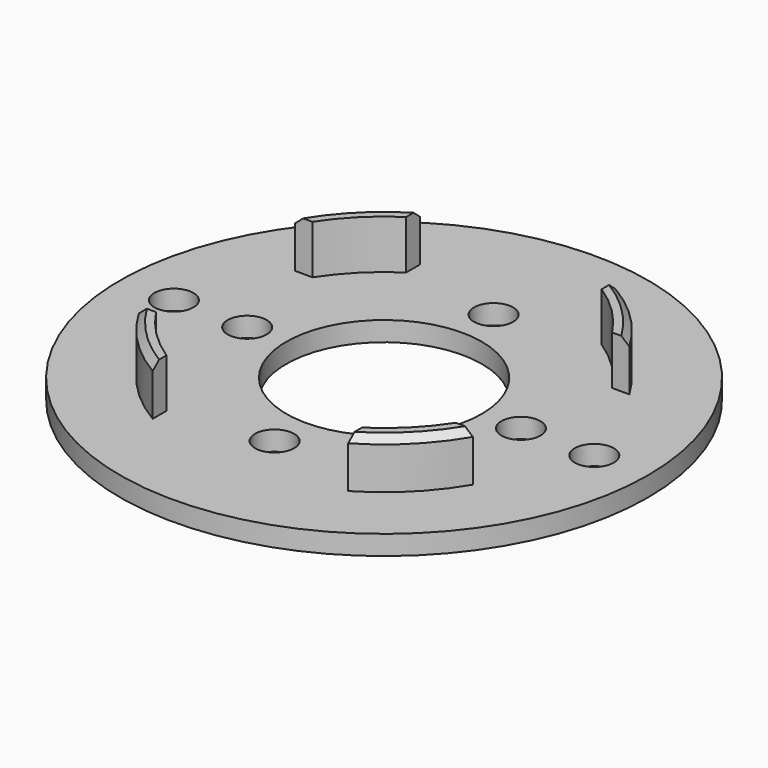
from build123d import *

# Parameters (mm, degrees)
SKETCH_R        = 27
SKETCH_R_2      = 10
PAD_DEPTH       = 2
SKETCH001_R     = 2
POCKET_DEPTH    = 2.001
SKETCH002_R     = 19.8
SKETCH002_R_2   = 18.3
PAD001_DEPTH    = 5
POCKET001_DEPTH = 5
SKETCH004_R     = 2
POCKET002_DEPTH = 2.001
CHAMFER_SIZE    = 0.7


with BuildPart() as part:
    # Sketch → Pad (new body)
    with BuildSketch(Plane.XY):
        Circle(SKETCH_R)
        Circle(SKETCH_R_2, mode=Mode.SUBTRACT)
    extrude(amount=PAD_DEPTH)

    # Sketch001 (on Face4 of Pad) → Pocket (cut, through all)
    with BuildSketch(Plane.XY.offset(2)):
        with Locations((0, 14)):
            Circle(SKETCH001_R)
        with Locations((14, 0)):
            Circle(SKETCH001_R)
        with Locations((0, -14)):
            Circle(SKETCH001_R)
        with Locations((-14, 0)):
            Circle(SKETCH001_R)
    extrude(amount=-POCKET_DEPTH, mode=Mode.SUBTRACT)

    # Sketch002 (on Face3 of Pocket) → Pad001 (join)
    with BuildSketch(Plane.XY.offset(2)):
        Circle(SKETCH002_R)
        Circle(SKETCH002_R_2, mode=Mode.SUBTRACT)
    extrude(amount=PAD001_DEPTH)

    # Sketch003 (on Face3 of Pad001) → Pocket001 (cut)
    with BuildSketch(Plane.XY.offset(2)):
        Polygon((-49.376067, 10), (-10, 10), (-10, 45.075482), (10, 45.075482), (10, 10), (49.376067, 10), (49.376067, -10), (10, -10), (10, -45.075482), (-10, -45.075482), (-10, -10), (-49.376067, -10), align=None)
    extrude(amount=POCKET001_DEPTH, mode=Mode.SUBTRACT)

    # Sketch004 (on Face24 of Pocket001) → Pocket002 (cut, through all)
    with BuildSketch(Plane.XY.offset(2)):
        with Locations((-21.5, 0)):
            Circle(SKETCH004_R)
        with Locations((21.5, 0)):
            Circle(SKETCH004_R)
    extrude(amount=-POCKET002_DEPTH, mode=Mode.SUBTRACT)

    # Chamfer
    chamfer_edges = [part.edges().sort_by_distance(p)[0] for p in [
        (14.000714, -14.000714, 7),
        (-14.000714, -14.000714, 7),
        (-14.000714, 14.000714, 7),
        (14.000714, 14.000714, 7),
    ]]
    chamfer(chamfer_edges, length=CHAMFER_SIZE)


solid = part.part
